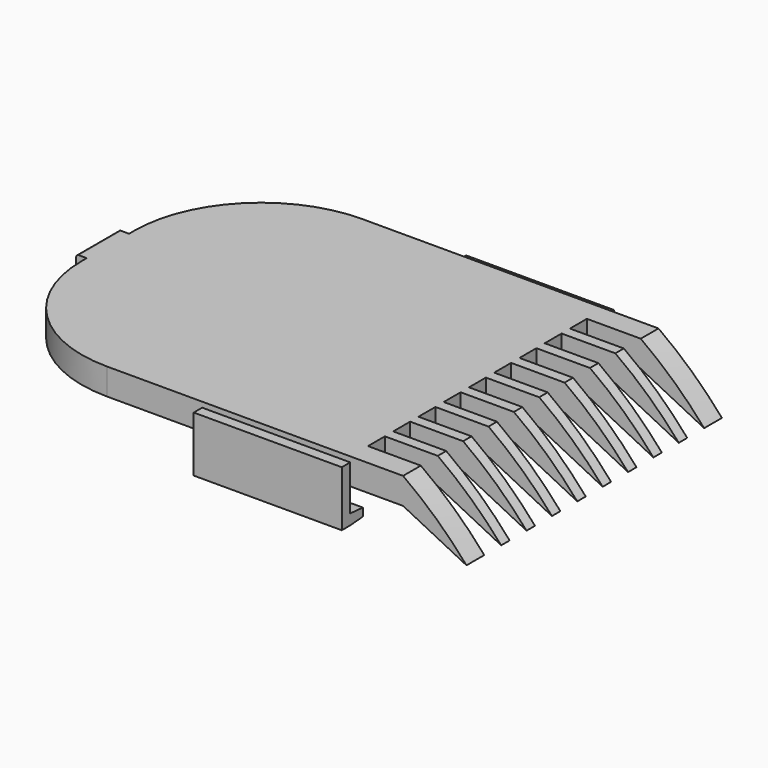
from build123d import *

# Parameters (mm, degrees)
F1_DEPTH      = 15.1
F1_DEPTH_BACK = 15.1
F2_DEPTH      = 2.5
F2_DEPTH_BACK = 2.5
F3_W          = 14
F3_H          = 1
F4_DEPTH      = 2
F4_DEPTH_BACK = 4
F6_DEPTH      = 1.5
F7_W          = 5.0940940584
F7_H          = 2
F7_W_2        = 5.0823323011
F7_W_3        = 5.0705705438
F7_W_4        = 5.0588087865
F7_W_5        = 5.0470470292
F7_W_6        = 5.0352852719
F7_W_7        = 5.0235235146
F7_W_8        = 5.0117617573
F7_W_9        = 5
F8_DEPTH      = 6.501
F10_DEPTH     = 15
F11_R         = 12


with BuildPart() as f1:
    # F0 (on Front) → F1 (new body, two sides)
    with BuildSketch(Plane.XZ) as f1_sk:
        with BuildLine():
            Line((-71.4607020907, 40.6989861274), (-71.4607020907, 38.1989861274))
            Line((-71.4607020907, 38.1989861274), (-31.4607020907, 38.1989861274))
            Line((-31.4607020907, 38.1989861274), (-25.4607020907, 35.1989861274))
            ThreePointArc((-25.4607020907, 35.1989861274), (-28.2968833209, 38.1276975126), (-31.4607020907, 40.6989861274))
            Line((-31.4607020907, 40.6989861274), (-71.4607020907, 40.6989861274))
        make_face()
    extrude(amount=F1_DEPTH)
    extrude(f1_sk.sketch, amount=-F1_DEPTH_BACK)

    # F0 (on Front) → F2 (join, two sides)
    with BuildSketch(Plane.XZ) as f2_sk:
        with BuildLine():
            Line((-71.4607020907, 36.4489861274), (-71.4607020907, 38.1989861274))
            Line((-71.4607020907, 38.1989861274), (-71.4607020907, 40.6989861274))
            Line((-71.4607020907, 40.6989861274), (-72.2107020907, 40.6989861274))
            ThreePointArc((-72.2107020907, 40.6989861274), (-72.387478786, 40.6257628227), (-72.4607020907, 40.4489861274))
            Line((-72.4607020907, 40.4489861274), (-72.4607020907, 35.9489861274))
            ThreePointArc((-72.4607020907, 35.9489861274), (-72.387478786, 35.7722094321), (-72.2107020907, 35.6989861274))
            Line((-72.2107020907, 35.6989861274), (-71.2107020907, 35.6989861274))
            ThreePointArc((-71.2107020907, 35.6989861274), (-71.0339253954, 35.7722094321), (-70.9607020907, 35.9489861274))
            Line((-70.9607020907, 35.9489861274), (-70.9607020907, 36.1989861274))
            Line((-70.9607020907, 36.1989861274), (-71.2107020907, 36.1989861274))
            ThreePointArc((-71.2107020907, 36.1989861274), (-71.387478786, 36.2722094321), (-71.4607020907, 36.4489861274))
        make_face()
    extrude(amount=F2_DEPTH)
    extrude(f2_sk.sketch, amount=-F2_DEPTH_BACK)

    # F7 (on face) → F8 (cut, through all)
    with BuildSketch(Plane.XY.offset(40.6989861274)):
        Polygon((-31.4607020907, -10.9998155474), (-31.4607020907, -12.9998155474), (-23.5907521141, -12.9998155474), (-23.6532528544, -10.9998155474), align=None)
        Polygon((-31.4607020907, -7.999838604), (-31.4607020907, -9.999838604), (-23.6025138714, -9.999838604), (-23.6650146117, -7.999838604), align=None)
        Polygon((-23.676776369, -4.9998616605), (-31.4607020907, -4.9998616605), (-31.4607020907, -6.9998616605), (-23.6142756287, -6.9998616605), align=None)
        Polygon((-23.6885381263, -1.9998847171), (-31.4607020907, -1.9998847171), (-31.4607020907, -3.9998847171), (-23.626037386, -3.9998847171), align=None)
        Polygon((-23.7002998836, 1.0000922263), (-31.4607020907, 1.0000922263), (-31.4607020907, -0.9999077737), (-23.6377991433, -0.9999077737), align=None)
        Polygon((-23.7120616409, 4.0000691697), (-31.4607020907, 4.0000691697), (-31.4607020907, 2.0000691697), (-23.6495609006, 2.0000691697), align=None)
        Polygon((-23.7238233982, 7.0000461132), (-31.4607020907, 7.0000461132), (-31.4607020907, 5.0000461132), (-23.6613226579, 5.0000461132), align=None)
        Polygon((-23.7355851555, 10.0000230566), (-31.4607020907, 10.0000230566), (-31.4607020907, 8.0000230566), (-23.6730844152, 8.0000230566), align=None)
        Polygon((-23.6848461725, 11), (-23.7473469128, 13), (-31.4607020907, 13), (-31.4607020907, 11), align=None)
        with Locations((-34.0077491199, 12)):
            Rectangle(F7_W, F7_H)
        with Locations((-34.0018682413, 9.0000230566)):
            Rectangle(F7_W_2, F7_H)
        with Locations((-33.9959873626, 6.0000461132)):
            Rectangle(F7_W_3, F7_H)
        with Locations((-33.990106484, 3.0000691697)):
            Rectangle(F7_W_4, F7_H)
        with Locations((-33.9842256053, 9.22263e-05)):
            Rectangle(F7_W_5, F7_H)
        with Locations((-33.9783447267, -2.9998847171)):
            Rectangle(F7_W_6, F7_H)
        with Locations((-33.972463848, -5.9998616605)):
            Rectangle(F7_W_7, F7_H)
        with Locations((-33.9665829694, -8.999838604)):
            Rectangle(F7_W_8, F7_H)
        with Locations((-33.9607020907, -11.9998155474)):
            Rectangle(F7_W_9, F7_H)
    extrude(amount=-F8_DEPTH, mode=Mode.SUBTRACT)

    # F11
    f11_edges = [f1.edges().sort_by_distance(p)[0] for p in [
        (-71.460702, -15.1, 39.448986),
        (-71.460702, 15.1, 39.448986),
    ]]
    fillet(f11_edges, radius=F11_R)



with BuildPart() as f4:
    # F3 (on face) → F4 (new body, two sides)
    with BuildSketch(Plane(origin=(0, 0, 38.1989861274), x_dir=(1, 0, 0), z_dir=(0, 0, -1))) as f4_sk:
        with Locations((-43.4607020907, -15.6)):
            Rectangle(F3_W, F3_H)
    extrude(amount=-F4_DEPTH)
    extrude(f4_sk.sketch, amount=F4_DEPTH_BACK)

    # F5 (on face) → F6 (join)
    with BuildSketch(Plane.XZ.offset(-15.1)):
        Polygon((-36.4607020907, 34.1989861274), (-36.4607020907, 35.9489861274), (-43.4607020907, 35.9489861274), (-44.4607020907, 34.1989861274), align=None)
        Polygon((-44.4607020907, 34.1989861274), (-43.4607020907, 35.9489861274), (-50.4607020907, 35.9489861274), (-50.4607020907, 34.1989861274), align=None)
    extrude(amount=F6_DEPTH)

    # F9 (on face) → F10 (cut)
    with BuildSketch(Plane(origin=(-50.4607020907, 0, 0), x_dir=(0, -1, 0), z_dir=(-1, 0, 0))):
        Polygon((-15.1, 35.9489861274), (-13.6, 35.8239861274), (-13.6, 35.9489861274), align=None)
        Polygon((-13.6, 35.0739861274), (-15.1, 34.9489861274), (-13.6, 34.9489861274), align=None)
        Polygon((-15.1, 34.9489861274), (-16.1, 34.9489861274), (-16.1, 34.1989861274), (-13.6, 34.1989861274), (-13.6, 34.9489861274), align=None)
    extrude(amount=-F10_DEPTH, mode=Mode.SUBTRACT)


with BuildPart() as f1_1:
    add(f1.part)

    add(f4.part)  # F12 merges F4
    # F12: F4 across plane
    add(f4.part.mirror(Plane.XZ))


solid = f1_1.part
